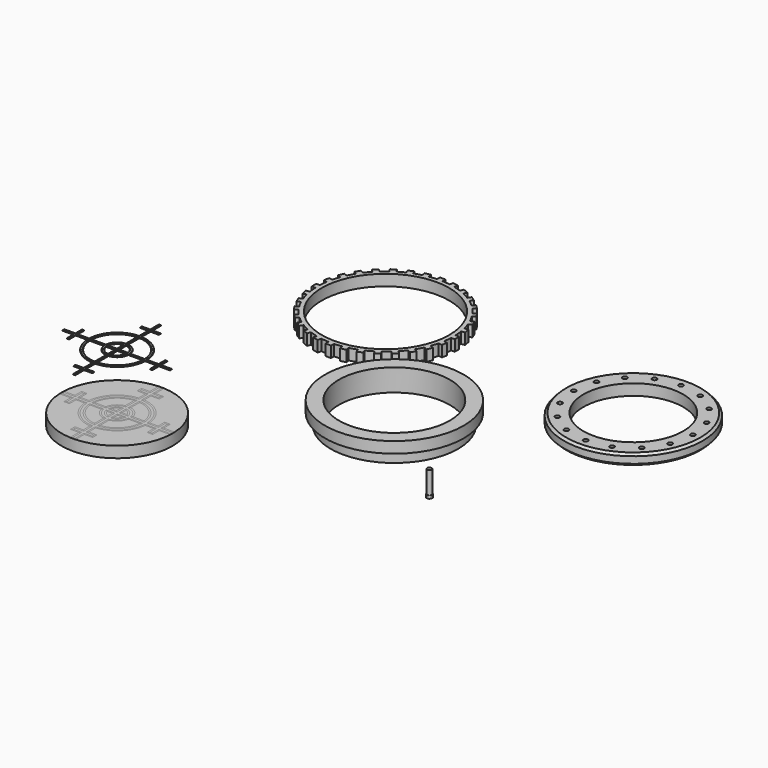
from build123d import *

# Parameters (mm, degrees)
F0_R      = 31.75
F0_R_2    = 25.4
F1_DEPTH  = 5.08
F2_R      = 29.21
F2_R_2    = 1.0361361301
F2_R_3    = 25.4
F3_DEPTH  = 5.08
F4_R      = 29.21
F5_DEPTH  = 5.08
F6_R      = 31.75
F6_R_2    = 1.0361422
F6_R_3    = 22.86
F7_DEPTH  = 5.08
F8_SIZE   = 1.016
F9_R      = 25.4
F10_DEPTH = 5.08
F11_R     = 1.27
F12_DEPTH = 1.27
F13_R     = 1.0361422
F14_DEPTH = 10.16
F15_W     = 2.54
F15_H     = 2.54
F15_H_2   = 3.81
F15_W_2   = 3.81
F16_DEPTH = 0.0254
F16_TAPER = 88
F18_DEPTH = 0.254
F18_TAPER = 30


with BuildPart() as f1:
    # F0 (on Top) → F1 (new body)
    with BuildSketch(Plane.XY):
        Circle(F0_R)
        Circle(F0_R_2, mode=Mode.SUBTRACT)
    extrude(amount=F1_DEPTH)

    # F2 (on face) → F3 (join)
    with BuildSketch(Plane(origin=(0, 0, 0), x_dir=(1, 0, 0), z_dir=(0, 0, -1))):
        Circle(F2_R)
        with Locations((-19.3075506603, -19.3075506603)):
            Circle(F2_R_2, mode=Mode.SUBTRACT)
        with Locations((-10.4491711207, -25.2265306352)):
            Circle(F2_R_2, mode=Mode.SUBTRACT)
        with Locations((-25.2265306352, -10.4491711207)):
            Circle(F2_R_2, mode=Mode.SUBTRACT)
        with Locations((0, -27.305)):
            Circle(F2_R_2, mode=Mode.SUBTRACT)
        with Locations((10.4491711207, -25.2265306352)):
            Circle(F2_R_2, mode=Mode.SUBTRACT)
        with Locations((19.3075506603, -19.3075506603)):
            Circle(F2_R_2, mode=Mode.SUBTRACT)
        with Locations((25.2265306352, -10.4491711207)):
            Circle(F2_R_2, mode=Mode.SUBTRACT)
        with Locations((-27.305, 0)):
            Circle(F2_R_2, mode=Mode.SUBTRACT)
        with Locations((-25.2265306352, 10.4491711207)):
            Circle(F2_R_2, mode=Mode.SUBTRACT)
        with Locations((-19.3075506603, 19.3075506603)):
            Circle(F2_R_2, mode=Mode.SUBTRACT)
        with Locations((-10.4491711207, 25.2265306352)):
            Circle(F2_R_2, mode=Mode.SUBTRACT)
        Circle(F2_R_3, mode=Mode.SUBTRACT)
        with BuildLine():
            ThreePointArc((26.2688638699, 0), (27.305, 1.0361361301), (28.3411361301, 0))
            ThreePointArc((28.3411361301, 0), (27.305, -1.0361361301), (26.2688638699, 0))
        make_face(mode=Mode.SUBTRACT)
        with Locations((25.2265306352, 10.4491711207)):
            Circle(F2_R_2, mode=Mode.SUBTRACT)
        with Locations((0, 27.305)):
            Circle(F2_R_2, mode=Mode.SUBTRACT)
        with Locations((10.4491711207, 25.2265306352)):
            Circle(F2_R_2, mode=Mode.SUBTRACT)
        with Locations((19.3075506603, 19.3075506603)):
            Circle(F2_R_2, mode=Mode.SUBTRACT)
    extrude(amount=F3_DEPTH)


with BuildPart() as f5:
    # F4 (on Top) → F5 (new body)
    with BuildSketch(Plane.XY):
        with BuildLine():
            ThreePointArc((-14.2868127504, 50.3645271792), (-14.2673665474, 50.9993948462), (-14.2608835793, 51.6345271792))
            ThreePointArc((-14.2608835793, 51.6345271792), (-14.2673665474, 52.2696595123), (-14.2868127504, 52.9045271792))
            ThreePointArc((-14.2868127504, 52.9045271792), (-14.4107108088, 54.6843305006), (-14.63641582, 56.4541067123))
            ThreePointArc((-14.63641582, 56.4541067123), (-14.8587495795, 57.7047625488), (-15.1319452379, 58.9453013245))
            ThreePointArc((-15.1319452379, 58.9453013245), (-15.6006850329, 60.666734912), (-16.1673193966, 62.3584725068))
            ThreePointArc((-16.1673193966, 62.3584725068), (-16.6293719252, 63.5417221773), (-17.1393353148, 64.7051265193))
            ThreePointArc((-17.1393353148, 64.7051265193), (-17.9349034391, 66.3020366456), (-18.8206917144, 67.8507230964))
            ThreePointArc((-18.8206917144, 67.8507230964), (-19.5047065925, 68.9210949796), (-20.2318401063, 69.9626559116))
            ThreePointArc((-20.2318401063, 69.9626559116), (-21.3236633229, 71.373674216), (-22.4945651633, 72.719794371))
            ThreePointArc((-22.4945651633, 72.719794371), (-23.3742560826, 73.6361546759), (-24.2906163875, 74.5158455952))
            ThreePointArc((-24.2906163875, 74.5158455952), (-25.6367365425, 75.6867474356), (-27.0477548469, 76.7785706522))
            ThreePointArc((-27.0477548469, 76.7785706522), (-28.0893157788, 77.505704166), (-29.1596876621, 78.1897190441))
            ThreePointArc((-29.1596876621, 78.1897190441), (-30.7083741129, 79.0755073194), (-32.3052842391, 79.8710754437))
            ThreePointArc((-32.3052842391, 79.8710754437), (-33.4686885812, 80.3810388333), (-34.6519382517, 80.8430913619))
            ThreePointArc((-34.6519382517, 80.8430913619), (-36.3436758465, 81.4097257255), (-38.065109434, 81.8784655206))
            ThreePointArc((-38.065109434, 81.8784655206), (-39.3056482097, 82.151661179), (-40.5563040462, 82.3739949385))
            ThreePointArc((-40.5563040462, 82.3739949385), (-42.3260802579, 82.5996999496), (-44.1058835793, 82.7235980081))
            Line((-44.1058835793, 82.7235980081), (-44.1058835793, 81.8605271792))
            Line((-44.1058835793, 81.8605271792), (-46.6458835793, 81.8605271792))
            Line((-46.6458835793, 81.8605271792), (-46.6458835793, 82.7235980081))
            ThreePointArc((-46.6458835793, 82.7235980081), (-48.4256869006, 82.5996999496), (-50.1954631123, 82.3739949385))
            ThreePointArc((-50.1954631123, 82.3739949385), (-51.4461189488, 82.151661179), (-52.6866577245, 81.8784655206))
            ThreePointArc((-52.6866577245, 81.8784655206), (-54.408091312, 81.4097257255), (-56.0998289068, 80.8430913619))
            ThreePointArc((-56.0998289068, 80.8430913619), (-57.2830785773, 80.3810388333), (-58.4464829194, 79.8710754437))
            ThreePointArc((-58.4464829194, 79.8710754437), (-60.0433930456, 79.0755073194), (-61.5920794964, 78.1897190441))
            ThreePointArc((-61.5920794964, 78.1897190441), (-62.6624513797, 77.505704166), (-63.7040123116, 76.7785706522))
            ThreePointArc((-63.7040123116, 76.7785706522), (-65.115030616, 75.6867474356), (-66.461150771, 74.5158455952))
            ThreePointArc((-66.461150771, 74.5158455952), (-67.3775110759, 73.6361546759), (-68.2572019952, 72.719794371))
            ThreePointArc((-68.2572019952, 72.719794371), (-69.4281038356, 71.373674216), (-70.5199270522, 69.9626559116))
            ThreePointArc((-70.5199270522, 69.9626559116), (-71.247060566, 68.9210949796), (-71.9310754441, 67.8507230964))
            ThreePointArc((-71.9310754441, 67.8507230964), (-72.8168637195, 66.3020366456), (-73.6124318437, 64.7051265193))
            ThreePointArc((-73.6124318437, 64.7051265193), (-74.1223952333, 63.5417221773), (-74.5844477619, 62.3584725068))
            ThreePointArc((-74.5844477619, 62.3584725068), (-75.1510821256, 60.666734912), (-75.6198219206, 58.9453013245))
            ThreePointArc((-75.6198219206, 58.9453013245), (-75.893017579, 57.7047625488), (-76.1153513385, 56.4541067123))
            ThreePointArc((-76.1153513385, 56.4541067123), (-76.3410563497, 54.6843305006), (-76.4649544081, 52.9045271792))
            ThreePointArc((-76.4649544081, 52.9045271792), (-76.4908835793, 51.6345271792), (-76.4649544081, 50.3645271792))
            ThreePointArc((-76.4649544081, 50.3645271792), (-76.3410563497, 48.5847238579), (-76.1153513385, 46.8149476462))
            ThreePointArc((-76.1153513385, 46.8149476462), (-75.893017579, 45.5642918097), (-75.6198219206, 44.3237530339))
            ThreePointArc((-75.6198219206, 44.3237530339), (-75.1510821256, 42.6023194465), (-74.5844477619, 40.9105818517))
            ThreePointArc((-74.5844477619, 40.9105818517), (-74.1223952333, 39.7273321812), (-73.6124318437, 38.5639278391))
            ThreePointArc((-73.6124318437, 38.5639278391), (-72.8168637195, 36.9670177129), (-71.9310754441, 35.4183312621))
            ThreePointArc((-71.9310754441, 35.4183312621), (-71.247060566, 34.3479593788), (-70.5199270522, 33.3063984469))
            ThreePointArc((-70.5199270522, 33.3063984469), (-69.4281038356, 31.8953801425), (-68.2572019952, 30.5492599875))
            ThreePointArc((-68.2572019952, 30.5492599875), (-67.3775110759, 29.6328996826), (-66.461150771, 28.7532087633))
            ThreePointArc((-66.461150771, 28.7532087633), (-65.115030616, 27.5823069229), (-63.7040123116, 26.4904837063))
            ThreePointArc((-63.7040123116, 26.4904837063), (-62.6624513797, 25.7633501924), (-61.5920794964, 25.0793353144))
            ThreePointArc((-61.5920794964, 25.0793353144), (-60.0433930456, 24.193547039), (-58.4464829194, 23.3979789148))
            ThreePointArc((-58.4464829194, 23.3979789148), (-57.2830785773, 22.8880155252), (-56.0998289068, 22.4259629966))
            ThreePointArc((-56.0998289068, 22.4259629966), (-54.408091312, 21.8593286329), (-52.6866577245, 21.3905888379))
            ThreePointArc((-52.6866577245, 21.3905888379), (-51.4461189488, 21.1173931795), (-50.1954631123, 20.89505942))
            ThreePointArc((-50.1954631123, 20.89505942), (-48.4256869006, 20.6693544088), (-46.6458835793, 20.5454563504))
            ThreePointArc((-46.6458835793, 20.5454563504), (-45.3758835793, 20.5195271792), (-44.1058835793, 20.5454563504))
            ThreePointArc((-44.1058835793, 20.5454563504), (-42.3260802579, 20.6693544088), (-40.5563040462, 20.89505942))
            ThreePointArc((-40.5563040462, 20.89505942), (-39.3056482097, 21.1173931795), (-38.065109434, 21.3905888379))
            ThreePointArc((-38.065109434, 21.3905888379), (-36.3436758465, 21.8593286329), (-34.6519382517, 22.4259629966))
            ThreePointArc((-34.6519382517, 22.4259629966), (-33.4686885812, 22.8880155252), (-32.3052842391, 23.3979789148))
            ThreePointArc((-32.3052842391, 23.3979789148), (-30.7083741129, 24.193547039), (-29.1596876621, 25.0793353144))
            ThreePointArc((-29.1596876621, 25.0793353144), (-28.0893157788, 25.7633501924), (-27.0477548469, 26.4904837063))
            ThreePointArc((-27.0477548469, 26.4904837063), (-25.6367365425, 27.5823069229), (-24.2906163875, 28.7532087633))
            ThreePointArc((-24.2906163875, 28.7532087633), (-23.3742560826, 29.6328996826), (-22.4945651633, 30.5492599875))
            ThreePointArc((-22.4945651633, 30.5492599875), (-21.3236633229, 31.8953801425), (-20.2318401063, 33.3063984469))
            ThreePointArc((-20.2318401063, 33.3063984469), (-19.5047065925, 34.3479593788), (-18.8206917144, 35.4183312621))
            ThreePointArc((-18.8206917144, 35.4183312621), (-17.9349034391, 36.9670177129), (-17.1393353148, 38.5639278391))
            ThreePointArc((-17.1393353148, 38.5639278391), (-16.6293719252, 39.7273321812), (-16.1673193966, 40.9105818517))
            ThreePointArc((-16.1673193966, 40.9105818517), (-15.6006850329, 42.6023194465), (-15.1319452379, 44.3237530339))
            ThreePointArc((-15.1319452379, 44.3237530339), (-14.8587495795, 45.5642918097), (-14.63641582, 46.8149476462))
            ThreePointArc((-14.63641582, 46.8149476462), (-14.4107108088, 48.5847238579), (-14.2868127504, 50.3645271792))
        make_face()
        with Locations((-45.3758835793, 51.6345271792)):
            Circle(F4_R, mode=Mode.SUBTRACT)
        with BuildLine():
            ThreePointArc((-14.2868127504, 52.9045271792), (-14.2673665474, 52.2696595123), (-14.2608835793, 51.6345271792))
            ThreePointArc((-14.2608835793, 51.6345271792), (-14.2673665474, 50.9993948462), (-14.2868127504, 50.3645271792))
            Line((-14.2868127504, 50.3645271792), (-12.6098835793, 50.3645271792))
            Line((-12.6098835793, 50.3645271792), (-12.6098835793, 52.9045271792))
            Line((-12.6098835793, 52.9045271792), (-14.2868127504, 52.9045271792))
        make_face()
        with BuildLine():
            ThreePointArc((-15.1319452379, 58.9453013245), (-14.8587495795, 57.7047625488), (-14.63641582, 56.4541067123))
            Line((-14.63641582, 56.4541067123), (-12.9917083726, 56.7812593643))
            Line((-12.9917083726, 56.7812593643), (-13.4872377905, 59.2724539765))
            Line((-13.4872377905, 59.2724539765), (-15.1319452379, 58.9453013245))
        make_face()
        with BuildLine():
            Line((-12.9917083726, 46.4877949942), (-14.63641582, 46.8149476462))
            ThreePointArc((-14.63641582, 46.8149476462), (-14.8587495795, 45.5642918097), (-15.1319452379, 44.3237530339))
            Line((-15.1319452379, 44.323753034), (-13.4872377905, 43.9966003819))
            Line((-13.4872377905, 43.9966003819), (-12.9917083726, 46.4877949942))
        make_face()
        with BuildLine():
            ThreePointArc((-17.1393353148, 64.7051265193), (-16.6293719252, 63.5417221773), (-16.1673193966, 62.3584725068))
            Line((-16.1673193966, 62.3584725068), (-14.6180388579, 63.0002055178))
            Line((-14.6180388579, 63.0002055178), (-15.5900547761, 65.3468595304))
            Line((-15.5900547761, 65.3468595304), (-17.1393353148, 64.7051265193))
        make_face()
        with BuildLine():
            Line((-14.6180388579, 40.2688488407), (-16.1673193966, 40.9105818517))
            ThreePointArc((-16.1673193966, 40.9105818517), (-16.6293719252, 39.7273321812), (-17.1393353148, 38.5639278391))
            Line((-17.1393353148, 38.5639278391), (-15.5900547761, 37.9221948281))
            Line((-15.5900547761, 37.9221948281), (-14.6180388579, 40.2688488407))
        make_face()
        with BuildLine():
            ThreePointArc((-20.2318401063, 69.9626559116), (-19.5047065925, 68.9210949796), (-18.8206917144, 67.8507230964))
            Line((-18.8206917144, 67.8507230964), (-17.4263760666, 68.7823750267))
            Line((-17.4263760666, 68.7823750267), (-18.8375244585, 70.894307842))
            Line((-18.8375244585, 70.894307842), (-20.2318401063, 69.9626559116))
        make_face()
        with BuildLine():
            Line((-17.4263760666, 34.4866793317), (-18.8206917144, 35.4183312621))
            ThreePointArc((-18.8206917144, 35.4183312621), (-19.5047065925, 34.3479593788), (-20.2318401063, 33.3063984469))
            Line((-20.2318401063, 33.3063984469), (-18.8375244585, 32.3747465165))
            Line((-18.8375244585, 32.3747465165), (-17.4263760666, 34.4866793317))
        make_face()
        with BuildLine():
            ThreePointArc((-24.2906163875, 74.5158455952), (-23.3742560826, 73.6361546759), (-22.4945651633, 72.719794371))
            Line((-22.4945651633, 72.719794371), (-21.3087971748, 73.9055623595))
            Line((-21.3087971748, 73.9055623595), (-23.104848399, 75.7016135837))
            Line((-23.104848399, 75.7016135837), (-24.2906163875, 74.5158455952))
        make_face()
        with BuildLine():
            Line((-21.3087971748, 29.363491999), (-22.4945651633, 30.5492599875))
            ThreePointArc((-22.4945651633, 30.5492599875), (-23.3742560826, 29.6328996826), (-24.2906163875, 28.7532087633))
            Line((-24.2906163875, 28.7532087633), (-23.104848399, 27.5674407748))
            Line((-23.104848399, 27.5674407748), (-21.3087971748, 29.363491999))
        make_face()
        with BuildLine():
            ThreePointArc((-29.1596876621, 78.1897190441), (-28.0893157788, 77.505704166), (-27.0477548469, 76.7785706522))
            Line((-27.0477548469, 76.7785706522), (-26.1161029165, 78.1728863))
            Line((-26.1161029165, 78.1728863), (-28.2280357318, 79.5840346919))
            Line((-28.2280357318, 79.5840346919), (-29.1596876621, 78.1897190441))
        make_face()
        with BuildLine():
            Line((-26.1161029165, 25.0961680585), (-27.0477548469, 26.4904837063))
            ThreePointArc((-27.0477548469, 26.4904837063), (-28.0893157788, 25.7633501924), (-29.1596876621, 25.0793353144))
            Line((-29.1596876621, 25.0793353144), (-28.2280357318, 23.6850196666))
            Line((-28.2280357318, 23.6850196666), (-26.1161029165, 25.0961680585))
        make_face()
        with BuildLine():
            ThreePointArc((-34.6519382517, 80.8430913619), (-33.4686885812, 80.3810388333), (-32.3052842391, 79.8710754437))
            Line((-32.3052842391, 79.8710754437), (-31.6635512281, 81.4203559824))
            Line((-31.6635512281, 81.4203559824), (-34.0102052407, 82.3923719006))
            Line((-34.0102052407, 82.3923719006), (-34.6519382517, 80.8430913619))
        make_face()
        with BuildLine():
            Line((-31.6635512281, 21.8486983761), (-32.3052842391, 23.3979789148))
            ThreePointArc((-32.3052842391, 23.3979789148), (-33.4686885812, 22.8880155252), (-34.6519382517, 22.4259629966))
            Line((-34.6519382517, 22.4259629966), (-34.0102052407, 20.8766824579))
            Line((-34.0102052407, 20.8766824579), (-31.6635512281, 21.8486983761))
        make_face()
        with BuildLine():
            ThreePointArc((-40.5563040462, 82.3739949385), (-39.3056482097, 82.151661179), (-38.065109434, 81.8784655206))
            Line((-38.065109434, 81.8784655206), (-37.737956782, 83.523172968))
            Line((-37.737956782, 83.523172968), (-40.2291513942, 84.0187023859))
            Line((-40.2291513942, 84.0187023859), (-40.5563040462, 82.3739949385))
        make_face()
        with BuildLine():
            Line((-37.737956782, 19.7458813905), (-38.065109434, 21.3905888379))
            ThreePointArc((-38.065109434, 21.3905888379), (-39.3056482097, 21.1173931795), (-40.5563040462, 20.89505942))
            Line((-40.5563040462, 20.89505942), (-40.2291513942, 19.2503519726))
            Line((-40.2291513942, 19.2503519726), (-37.737956782, 19.7458813905))
        make_face()
        with BuildLine():
            Line((-44.1058835793, 81.8605271792), (-44.1058835793, 82.7235980081))
            ThreePointArc((-44.1058835793, 82.7235980081), (-45.3758835793, 82.7495271792), (-46.6458835793, 82.7235980081))
            Line((-46.6458835793, 82.7235980081), (-46.6458835793, 81.8605271792))
            Line((-46.6458835793, 81.8605271792), (-44.1058835793, 81.8605271792))
        make_face()
        with BuildLine():
            ThreePointArc((-46.6458835793, 82.7235980081), (-45.3758835793, 82.7495271792), (-44.1058835793, 82.7235980081))
            Line((-44.1058835793, 82.7235980081), (-44.1058835793, 84.4005271792))
            Line((-44.1058835793, 84.4005271792), (-46.6458835793, 84.4005271792))
            Line((-46.6458835793, 84.4005271792), (-46.6458835793, 82.7235980081))
        make_face()
        with BuildLine():
            Line((-44.1058835793, 18.8685271792), (-44.1058835793, 20.5454563504))
            ThreePointArc((-44.1058835793, 20.5454563504), (-45.3758835793, 20.5195271792), (-46.6458835793, 20.5454563504))
            Line((-46.6458835793, 20.5454563504), (-46.6458835793, 18.8685271792))
            Line((-46.6458835793, 18.8685271792), (-44.1058835793, 18.8685271792))
        make_face()
        with BuildLine():
            ThreePointArc((-52.6866577245, 81.8784655206), (-51.4461189488, 82.151661179), (-50.1954631123, 82.3739949385))
            Line((-50.1954631123, 82.3739949385), (-50.5226157643, 84.0187023859))
            Line((-50.5226157643, 84.0187023859), (-53.0138103765, 83.523172968))
            Line((-53.0138103765, 83.523172968), (-52.6866577245, 81.8784655206))
        make_face()
        with BuildLine():
            Line((-50.5226157643, 19.2503519726), (-50.1954631123, 20.89505942))
            ThreePointArc((-50.1954631123, 20.89505942), (-51.4461189488, 21.1173931795), (-52.6866577245, 21.3905888379))
            Line((-52.6866577245, 21.3905888379), (-53.0138103765, 19.7458813905))
            Line((-53.0138103765, 19.7458813905), (-50.5226157643, 19.2503519726))
        make_face()
        with BuildLine():
            ThreePointArc((-58.4464829194, 79.8710754437), (-57.2830785773, 80.3810388333), (-56.0998289068, 80.8430913619))
            Line((-56.0998289068, 80.8430913619), (-56.7415619178, 82.3923719006))
            Line((-56.7415619178, 82.3923719006), (-59.0882159304, 81.4203559824))
            Line((-59.0882159304, 81.4203559824), (-58.4464829194, 79.8710754437))
        make_face()
        with BuildLine():
            Line((-56.7415619178, 20.8766824579), (-56.0998289068, 22.4259629966))
            ThreePointArc((-56.0998289068, 22.4259629966), (-57.2830785773, 22.8880155252), (-58.4464829194, 23.3979789148))
            Line((-58.4464829194, 23.3979789148), (-59.0882159304, 21.8486983761))
            Line((-59.0882159304, 21.8486983761), (-56.7415619178, 20.8766824579))
        make_face()
        with BuildLine():
            ThreePointArc((-63.7040123116, 76.7785706522), (-62.6624513797, 77.505704166), (-61.5920794964, 78.1897190441))
            Line((-61.5920794964, 78.1897190441), (-62.5237314268, 79.5840346919))
            Line((-62.5237314268, 79.5840346919), (-64.635664242, 78.1728863))
            Line((-64.635664242, 78.1728863), (-63.7040123116, 76.7785706522))
        make_face()
        with BuildLine():
            Line((-62.5237314268, 23.6850196666), (-61.5920794964, 25.0793353144))
            ThreePointArc((-61.5920794964, 25.0793353144), (-62.6624513797, 25.7633501924), (-63.7040123116, 26.4904837063))
            Line((-63.7040123116, 26.4904837063), (-64.635664242, 25.0961680585))
            Line((-64.635664242, 25.0961680585), (-62.5237314268, 23.6850196666))
        make_face()
        with BuildLine():
            ThreePointArc((-68.2572019952, 72.719794371), (-67.3775110759, 73.6361546759), (-66.461150771, 74.5158455952))
            Line((-66.461150771, 74.5158455952), (-67.6469187595, 75.7016135837))
            Line((-67.6469187595, 75.7016135837), (-69.4429699837, 73.9055623595))
            Line((-69.4429699837, 73.9055623595), (-68.2572019952, 72.719794371))
        make_face()
        with BuildLine():
            Line((-67.6469187595, 27.5674407748), (-66.461150771, 28.7532087633))
            ThreePointArc((-66.461150771, 28.7532087633), (-67.3775110759, 29.6328996826), (-68.2572019952, 30.5492599875))
            Line((-68.2572019952, 30.5492599875), (-69.4429699837, 29.363491999))
            Line((-69.4429699837, 29.363491999), (-67.6469187595, 27.5674407748))
        make_face()
        with BuildLine():
            ThreePointArc((-71.9310754441, 67.8507230964), (-71.247060566, 68.9210949796), (-70.5199270522, 69.9626559116))
            Line((-70.5199270522, 69.9626559116), (-71.9142427, 70.894307842))
            Line((-71.9142427, 70.894307842), (-73.3253910919, 68.7823750267))
            Line((-73.3253910919, 68.7823750267), (-71.9310754441, 67.8507230964))
        make_face()
        with BuildLine():
            Line((-71.9142427, 32.3747465165), (-70.5199270522, 33.3063984469))
            ThreePointArc((-70.5199270522, 33.3063984469), (-71.247060566, 34.3479593788), (-71.9310754441, 35.4183312621))
            Line((-71.9310754441, 35.4183312621), (-73.3253910919, 34.4866793317))
            Line((-73.3253910919, 34.4866793317), (-71.9142427, 32.3747465165))
        make_face()
        with BuildLine():
            ThreePointArc((-74.5844477619, 62.3584725068), (-74.1223952333, 63.5417221773), (-73.6124318437, 64.7051265193))
            Line((-73.6124318437, 64.7051265193), (-75.1617123824, 65.3468595304))
            Line((-75.1617123824, 65.3468595304), (-76.1337283006, 63.0002055178))
            Line((-76.1337283006, 63.0002055178), (-74.5844477619, 62.3584725068))
        make_face()
        with BuildLine():
            Line((-75.1617123824, 37.9221948281), (-73.6124318437, 38.5639278391))
            ThreePointArc((-73.6124318437, 38.5639278391), (-74.1223952333, 39.7273321812), (-74.5844477619, 40.9105818517))
            Line((-74.5844477619, 40.9105818517), (-76.1337283006, 40.2688488407))
            Line((-76.1337283006, 40.2688488407), (-75.1617123824, 37.9221948281))
        make_face()
        with BuildLine():
            ThreePointArc((-76.1153513385, 56.4541067123), (-75.893017579, 57.7047625488), (-75.6198219206, 58.9453013245))
            Line((-75.6198219206, 58.9453013245), (-77.264529368, 59.2724539765))
            Line((-77.264529368, 59.2724539765), (-77.7600587859, 56.7812593643))
            Line((-77.7600587859, 56.7812593643), (-76.1153513385, 56.4541067123))
        make_face()
        with BuildLine():
            Line((-77.264529368, 43.9966003819), (-75.6198219206, 44.323753034))
            ThreePointArc((-75.6198219206, 44.3237530339), (-75.893017579, 45.5642918097), (-76.1153513385, 46.8149476462))
            Line((-76.1153513385, 46.8149476462), (-77.7600587859, 46.4877949942))
            Line((-77.7600587859, 46.4877949942), (-77.264529368, 43.9966003819))
        make_face()
        with BuildLine():
            ThreePointArc((-76.4649544081, 50.3645271792), (-76.4908835793, 51.6345271792), (-76.4649544081, 52.9045271792))
            Line((-76.4649544081, 52.9045271792), (-78.1418835793, 52.9045271792))
            Line((-78.1418835793, 52.9045271792), (-78.1418835793, 50.3645271792))
            Line((-78.1418835793, 50.3645271792), (-76.4649544081, 50.3645271792))
        make_face()
    extrude(amount=F5_DEPTH)


with BuildPart() as f7:
    # F6 (on Top) → F7 (new body)
    with BuildSketch(Plane.XY):
        with Locations((72.8653296828, 45.7405559719)):
            Circle(F6_R)
        with Locations((53.5577790225, 26.4330053116)):
            Circle(F6_R_2, mode=Mode.SUBTRACT)
        with Locations((62.4161585621, 20.5140253366)):
            Circle(F6_R_2, mode=Mode.SUBTRACT)
        with Locations((47.6387990476, 35.2913848511)):
            Circle(F6_R_2, mode=Mode.SUBTRACT)
        with Locations((72.8653296828, 18.4355559719)):
            Circle(F6_R_2, mode=Mode.SUBTRACT)
        with Locations((83.3145008036, 20.5140253366)):
            Circle(F6_R_2, mode=Mode.SUBTRACT)
        with Locations((92.1728803431, 26.4330053116)):
            Circle(F6_R_2, mode=Mode.SUBTRACT)
        with Locations((98.091860318, 35.2913848511)):
            Circle(F6_R_2, mode=Mode.SUBTRACT)
        with Locations((45.5603296828, 45.7405559719)):
            Circle(F6_R_2, mode=Mode.SUBTRACT)
        with Locations((47.6387990476, 56.1897270926)):
            Circle(F6_R_2, mode=Mode.SUBTRACT)
        with Locations((53.5577790225, 65.0481066322)):
            Circle(F6_R_2, mode=Mode.SUBTRACT)
        with Locations((62.4161585621, 70.9670866071)):
            Circle(F6_R_2, mode=Mode.SUBTRACT)
        with Locations((72.8653296828, 45.7405559719)):
            Circle(F6_R_3, mode=Mode.SUBTRACT)
        with Locations((100.1703296828, 45.7405559719)):
            Circle(F6_R_2, mode=Mode.SUBTRACT)
        with Locations((98.091860318, 56.1897270926)):
            Circle(F6_R_2, mode=Mode.SUBTRACT)
        with Locations((72.8653296828, 73.0455559719)):
            Circle(F6_R_2, mode=Mode.SUBTRACT)
        with Locations((83.3145008036, 70.9670866071)):
            Circle(F6_R_2, mode=Mode.SUBTRACT)
        with Locations((92.1728803431, 65.0481066322)):
            Circle(F6_R_2, mode=Mode.SUBTRACT)
    extrude(amount=F7_DEPTH)

    # F8
    f8_edges = [f7.edges().sort_by_distance(p)[0] for p in [
        (41.11533, 45.740556, 5.08),
        (41.11533, 45.740556, 0),
    ]]
    chamfer(f8_edges, length=F8_SIZE)


with BuildPart() as f10:
    # F9 (on Top) → F10 (new body)
    with BuildSketch(Plane.XY):
        with Locations((-71.2537541986, -69.706402719)):
            Circle(F9_R)
    extrude(amount=F10_DEPTH)

    # F15 (on face) → F16 (cut)
    with BuildSketch(Plane.XY.offset(5.08)):
        with BuildLine():
            Line((-91.5737541986, -70.976402719), (-91.5737541986, -68.436402719))
            Line((-91.5737541986, -68.436402719), (-96.62198433, -68.436402719))
            ThreePointArc((-96.62198433, -68.436402719), (-96.6537541986, -69.706402719), (-96.62198433, -70.976402719))
            Line((-96.62198433, -70.976402719), (-91.5737541986, -70.976402719))
        make_face()
        with Locations((-90.3037541986, -69.706402719)):
            Rectangle(F15_W, F15_H)
        with Locations((-90.3037541986, -72.881402719)):
            Rectangle(F15_W, F15_H_2)
        with Locations((-90.3037541986, -66.531402719)):
            Rectangle(F15_W, F15_H_2)
        with BuildLine():
            ThreePointArc((-85.1659071592, -70.976402719), (-85.2237541986, -69.706402719), (-85.1659071592, -68.436402719))
            Line((-85.1659071592, -68.436402719), (-89.0337541986, -68.436402719))
            Line((-89.0337541986, -68.436402719), (-89.0337541986, -70.976402719))
            Line((-89.0337541986, -70.976402719), (-85.1659071592, -70.976402719))
        make_face()
        with BuildLine():
            Line((-82.6129795243, -68.436402719), (-85.1659071592, -68.436402719))
            ThreePointArc((-85.1659071592, -68.436402719), (-85.2237541986, -69.706402719), (-85.1659071592, -70.976402719))
            Line((-85.1659071592, -70.976402719), (-82.6129795243, -70.976402719))
            ThreePointArc((-82.6129795243, -70.976402719), (-82.6837541986, -69.706402719), (-82.6129795243, -68.436402719))
        make_face()
        with BuildLine():
            ThreePointArc((-85.1659071592, -70.976402719), (-81.1320359317, -79.5846844522), (-72.5237541986, -83.6185556797))
            Line((-72.5237541986, -83.6185556797), (-72.5237541986, -81.0656280447))
            ThreePointArc((-72.5237541986, -81.0656280447), (-79.3359847075, -77.788633228), (-82.6129795243, -70.976402719))
            Line((-82.6129795243, -70.976402719), (-85.1659071592, -70.976402719))
        make_face()
        with BuildLine():
            Line((-77.4754581452, -68.436402719), (-82.6129795243, -68.436402719))
            ThreePointArc((-82.6129795243, -68.436402719), (-82.6837541986, -69.706402719), (-82.6129795243, -70.976402719))
            Line((-82.6129795243, -70.976402719), (-77.4754581452, -70.976402719))
            ThreePointArc((-77.4754581452, -70.976402719), (-77.6037541986, -69.706402719), (-77.4754581452, -68.436402719))
        make_face()
        with BuildLine():
            Line((-72.5237541986, -58.3471773933), (-72.5237541986, -55.7942497584))
            ThreePointArc((-72.5237541986, -55.7942497584), (-81.1320359317, -59.8281209858), (-85.1659071592, -68.436402719))
            Line((-85.1659071592, -68.436402719), (-82.6129795243, -68.436402719))
            ThreePointArc((-82.6129795243, -68.436402719), (-79.3359847075, -61.6241722101), (-72.5237541986, -58.3471773933))
        make_face()
        with BuildLine():
            ThreePointArc((-77.4754581452, -70.976402719), (-75.7438822591, -74.1965307796), (-72.5237541986, -75.9281066657))
            Line((-72.5237541986, -75.9281066657), (-72.5237541986, -73.2985051674))
            ThreePointArc((-72.5237541986, -73.2985051674), (-73.9478310349, -72.4004795553), (-74.845856647, -70.976402719))
            Line((-74.845856647, -70.976402719), (-77.4754581452, -70.976402719))
        make_face()
        with BuildLine():
            ThreePointArc((-72.5237541986, -75.9281066657), (-71.2537541986, -76.056402719), (-69.9837541986, -75.9281066657))
            Line((-69.9837541986, -75.9281066657), (-69.9837541986, -73.2985051674))
            ThreePointArc((-69.9837541986, -73.2985051674), (-71.2537541986, -73.516402719), (-72.5237541986, -73.2985051674))
            Line((-72.5237541986, -73.2985051674), (-72.5237541986, -75.9281066657))
        make_face()
        with BuildLine():
            ThreePointArc((-72.5237541986, -83.6185556797), (-71.2537541986, -83.676402719), (-69.9837541986, -83.6185556797))
            Line((-69.9837541986, -83.6185556797), (-69.9837541986, -81.0656280447))
            ThreePointArc((-69.9837541986, -81.0656280447), (-71.2537541986, -81.136402719), (-72.5237541986, -81.0656280447))
            Line((-72.5237541986, -81.0656280447), (-72.5237541986, -83.6185556797))
        make_face()
        with Locations((-74.4287541986, -88.756402719)):
            Rectangle(F15_W_2, F15_H)
        with Locations((-68.0787541986, -88.756402719)):
            Rectangle(F15_W_2, F15_H)
        with BuildLine():
            Line((-69.9837541986, -87.486402719), (-69.9837541986, -83.6185556797))
            ThreePointArc((-69.9837541986, -83.6185556797), (-71.2537541986, -83.676402719), (-72.5237541986, -83.6185556797))
            Line((-72.5237541986, -83.6185556797), (-72.5237541986, -87.486402719))
            Line((-72.5237541986, -87.486402719), (-69.9837541986, -87.486402719))
        make_face()
        with BuildLine():
            Line((-69.9837541986, -95.0746328504), (-69.9837541986, -90.026402719))
            Line((-69.9837541986, -90.026402719), (-72.5237541986, -90.026402719))
            Line((-72.5237541986, -90.026402719), (-72.5237541986, -95.0746328504))
            ThreePointArc((-72.5237541986, -95.0746328504), (-71.2537541986, -95.106402719), (-69.9837541986, -95.0746328504))
        make_face()
        with Locations((-71.2537541986, -88.756402719)):
            Rectangle(F15_W, F15_H)
        with BuildLine():
            ThreePointArc((-69.9837541986, -83.6185556797), (-61.3754724654, -79.5846844522), (-57.3416012379, -70.976402719))
            Line((-57.3416012379, -70.976402719), (-59.8945288729, -70.976402719))
            ThreePointArc((-59.8945288729, -70.976402719), (-63.1715236896, -77.788633228), (-69.9837541986, -81.0656280447))
            Line((-69.9837541986, -81.0656280447), (-69.9837541986, -83.6185556797))
        make_face()
        with Locations((-52.2037541986, -72.881402719)):
            Rectangle(F15_W, F15_H_2)
        with BuildLine():
            Line((-45.8855240671, -68.436402719), (-50.9337541986, -68.436402719))
            Line((-50.9337541986, -68.436402719), (-50.9337541986, -70.976402719))
            Line((-50.9337541986, -70.976402719), (-45.8855240671, -70.976402719))
            ThreePointArc((-45.8855240671, -70.976402719), (-45.8616979079, -70.3416013739), (-45.8537541986, -69.706402719))
            ThreePointArc((-45.8537541986, -69.706402719), (-45.8616979079, -69.0712040642), (-45.8855240671, -68.436402719))
        make_face()
        with Locations((-52.2037541986, -69.706402719)):
            Rectangle(F15_W, F15_H)
        with Locations((-52.2037541986, -66.531402719)):
            Rectangle(F15_W, F15_H_2)
        with BuildLine():
            ThreePointArc((-57.3416012379, -68.436402719), (-57.2982234516, -69.0707443438), (-57.2837541986, -69.706402719))
            ThreePointArc((-57.2837541986, -69.706402719), (-57.2982234516, -70.3420610942), (-57.3416012379, -70.976402719))
            Line((-57.3416012379, -70.976402719), (-53.4737541986, -70.976402719))
            Line((-53.4737541986, -70.976402719), (-53.4737541986, -68.436402719))
            Line((-53.4737541986, -68.436402719), (-57.3416012379, -68.436402719))
        make_face()
        with BuildLine():
            ThreePointArc((-57.3416012379, -70.976402719), (-57.2982234516, -70.3420610942), (-57.2837541986, -69.706402719))
            ThreePointArc((-57.2837541986, -69.706402719), (-57.2982234516, -69.0707443438), (-57.3416012379, -68.436402719))
            Line((-57.3416012379, -68.436402719), (-59.8945288729, -68.436402719))
            ThreePointArc((-59.8945288729, -68.436402719), (-59.8414615833, -69.070417449), (-59.8237541986, -69.706402719))
            ThreePointArc((-59.8237541986, -69.706402719), (-59.8414615833, -70.342387989), (-59.8945288729, -70.976402719))
            Line((-59.8945288729, -70.976402719), (-57.3416012379, -70.976402719))
        make_face()
        with BuildLine():
            Line((-59.8945288729, -68.436402719), (-57.3416012379, -68.436402719))
            ThreePointArc((-57.3416012379, -68.436402719), (-61.3754724654, -59.8281209858), (-69.9837541986, -55.7942497584))
            Line((-69.9837541986, -55.7942497584), (-69.9837541986, -58.3471773933))
            ThreePointArc((-69.9837541986, -58.3471773933), (-63.1715236896, -61.6241722101), (-59.8945288729, -68.436402719))
        make_face()
        with BuildLine():
            ThreePointArc((-69.9837541986, -75.9281066657), (-66.763626138, -74.1965307796), (-65.0320502519, -70.976402719))
            Line((-65.0320502519, -70.976402719), (-67.6616517501, -70.976402719))
            ThreePointArc((-67.6616517501, -70.976402719), (-68.5596773622, -72.4004795553), (-69.9837541986, -73.2985051674))
            Line((-69.9837541986, -73.2985051674), (-69.9837541986, -75.9281066657))
        make_face()
        with BuildLine():
            Line((-74.845856647, -68.436402719), (-77.4754581452, -68.436402719))
            ThreePointArc((-77.4754581452, -68.436402719), (-77.6037541986, -69.706402719), (-77.4754581452, -70.976402719))
            Line((-77.4754581452, -70.976402719), (-74.845856647, -70.976402719))
            ThreePointArc((-74.845856647, -70.976402719), (-75.0637541986, -69.706402719), (-74.845856647, -68.436402719))
        make_face()
        with BuildLine():
            Line((-72.5237541986, -66.1143002706), (-72.5237541986, -63.4846987724))
            ThreePointArc((-72.5237541986, -63.4846987724), (-75.7438822591, -65.2162746585), (-77.4754581452, -68.436402719))
            Line((-77.4754581452, -68.436402719), (-74.845856647, -68.436402719))
            ThreePointArc((-74.845856647, -68.436402719), (-73.9478310349, -67.0123258827), (-72.5237541986, -66.1143002706))
        make_face()
        with BuildLine():
            ThreePointArc((-72.5237541986, -73.2985051674), (-71.2537541986, -73.516402719), (-69.9837541986, -73.2985051674))
            Line((-69.9837541986, -73.2985051674), (-69.9837541986, -70.976402719))
            Line((-69.9837541986, -70.976402719), (-72.5237541986, -70.976402719))
            Line((-72.5237541986, -70.976402719), (-72.5237541986, -73.2985051674))
        make_face()
        with BuildLine():
            ThreePointArc((-67.4437541986, -69.706402719), (-67.4986236863, -69.0621241801), (-67.6616517501, -68.436402719))
            Line((-67.6616517501, -68.436402719), (-69.9837541986, -68.436402719))
            Line((-69.9837541986, -68.436402719), (-69.9837541986, -70.976402719))
            Line((-69.9837541986, -70.976402719), (-67.6616517501, -70.976402719))
            ThreePointArc((-67.6616517501, -70.976402719), (-67.4986236863, -70.350681258), (-67.4437541986, -69.706402719))
        make_face()
        with Locations((-71.2537541986, -69.706402719)):
            Rectangle(F15_W, F15_H)
        with BuildLine():
            Line((-72.5237541986, -70.976402719), (-72.5237541986, -68.436402719))
            Line((-72.5237541986, -68.436402719), (-74.845856647, -68.436402719))
            ThreePointArc((-74.845856647, -68.436402719), (-75.0637541986, -69.706402719), (-74.845856647, -70.976402719))
            Line((-74.845856647, -70.976402719), (-72.5237541986, -70.976402719))
        make_face()
        with BuildLine():
            Line((-69.9837541986, -68.436402719), (-69.9837541986, -66.1143002706))
            ThreePointArc((-69.9837541986, -66.1143002706), (-71.2537541986, -65.896402719), (-72.5237541986, -66.1143002706))
            Line((-72.5237541986, -66.1143002706), (-72.5237541986, -68.436402719))
            Line((-72.5237541986, -68.436402719), (-69.9837541986, -68.436402719))
        make_face()
        with BuildLine():
            Line((-69.9837541986, -66.1143002706), (-69.9837541986, -63.4846987724))
            ThreePointArc((-69.9837541986, -63.4846987724), (-71.2537541986, -63.356402719), (-72.5237541986, -63.4846987724))
            Line((-72.5237541986, -63.4846987724), (-72.5237541986, -66.1143002706))
            ThreePointArc((-72.5237541986, -66.1143002706), (-71.2537541986, -65.896402719), (-69.9837541986, -66.1143002706))
        make_face()
        with BuildLine():
            Line((-69.9837541986, -63.4846987724), (-69.9837541986, -58.3471773933))
            ThreePointArc((-69.9837541986, -58.3471773933), (-71.2537541986, -58.276402719), (-72.5237541986, -58.3471773933))
            Line((-72.5237541986, -58.3471773933), (-72.5237541986, -63.4846987724))
            ThreePointArc((-72.5237541986, -63.4846987724), (-71.2537541986, -63.356402719), (-69.9837541986, -63.4846987724))
        make_face()
        with BuildLine():
            ThreePointArc((-59.8237541986, -69.706402719), (-59.8414615833, -69.070417449), (-59.8945288729, -68.436402719))
            Line((-59.8945288729, -68.436402719), (-65.0320502519, -68.436402719))
            ThreePointArc((-65.0320502519, -68.436402719), (-64.935909627, -69.0681708103), (-64.9037541986, -69.706402719))
            ThreePointArc((-64.9037541986, -69.706402719), (-64.935909627, -70.3446346278), (-65.0320502519, -70.976402719))
            Line((-65.0320502519, -70.976402719), (-59.8945288729, -70.976402719))
            ThreePointArc((-59.8945288729, -70.976402719), (-59.8414615833, -70.342387989), (-59.8237541986, -69.706402719))
        make_face()
        with BuildLine():
            ThreePointArc((-64.9037541986, -69.706402719), (-64.935909627, -69.0681708103), (-65.0320502519, -68.436402719))
            Line((-65.0320502519, -68.436402719), (-67.6616517501, -68.436402719))
            ThreePointArc((-67.6616517501, -68.436402719), (-67.4986236863, -69.0621241801), (-67.4437541986, -69.706402719))
            ThreePointArc((-67.4437541986, -69.706402719), (-67.4986236863, -70.350681258), (-67.6616517501, -70.976402719))
            Line((-67.6616517501, -70.976402719), (-65.0320502519, -70.976402719))
            ThreePointArc((-65.0320502519, -70.976402719), (-64.935909627, -70.3446346278), (-64.9037541986, -69.706402719))
        make_face()
        with BuildLine():
            Line((-67.6616517501, -68.436402719), (-65.0320502519, -68.436402719))
            ThreePointArc((-65.0320502519, -68.436402719), (-66.763626138, -65.2162746585), (-69.9837541986, -63.4846987724))
            Line((-69.9837541986, -63.4846987724), (-69.9837541986, -66.1143002706))
            ThreePointArc((-69.9837541986, -66.1143002706), (-68.5596773622, -67.0123258827), (-67.6616517501, -68.436402719))
        make_face()
        with BuildLine():
            Line((-69.9837541986, -58.3471773933), (-69.9837541986, -55.7942497584))
            ThreePointArc((-69.9837541986, -55.7942497584), (-71.2537541986, -55.736402719), (-72.5237541986, -55.7942497584))
            Line((-72.5237541986, -55.7942497584), (-72.5237541986, -58.3471773933))
            ThreePointArc((-72.5237541986, -58.3471773933), (-71.2537541986, -58.276402719), (-69.9837541986, -58.3471773933))
        make_face()
        with Locations((-71.2537541986, -50.656402719)):
            Rectangle(F15_W, F15_H)
        with Locations((-68.0787541986, -50.656402719)):
            Rectangle(F15_W_2, F15_H)
        with Locations((-74.4287541986, -50.656402719)):
            Rectangle(F15_W_2, F15_H)
        with BuildLine():
            ThreePointArc((-72.5237541986, -81.0656280447), (-71.2537541986, -81.136402719), (-69.9837541986, -81.0656280447))
            Line((-69.9837541986, -81.0656280447), (-69.9837541986, -75.9281066657))
            ThreePointArc((-69.9837541986, -75.9281066657), (-71.2537541986, -76.056402719), (-72.5237541986, -75.9281066657))
            Line((-72.5237541986, -75.9281066657), (-72.5237541986, -81.0656280447))
        make_face()
        with BuildLine():
            ThreePointArc((-72.5237541986, -55.7942497584), (-71.2537541986, -55.736402719), (-69.9837541986, -55.7942497584))
            Line((-69.9837541986, -55.7942497584), (-69.9837541986, -51.926402719))
            Line((-69.9837541986, -51.926402719), (-72.5237541986, -51.926402719))
            Line((-72.5237541986, -51.926402719), (-72.5237541986, -55.7942497584))
        make_face()
        with BuildLine():
            Line((-72.5237541986, -49.386402719), (-69.9837541986, -49.386402719))
            Line((-69.9837541986, -49.386402719), (-69.9837541986, -44.3381725876))
            ThreePointArc((-69.9837541986, -44.3381725876), (-71.2537541986, -44.306402719), (-72.5237541986, -44.3381725876))
            Line((-72.5237541986, -44.3381725876), (-72.5237541986, -49.386402719))
        make_face()
    extrude(amount=-F16_DEPTH, taper=F16_TAPER, mode=Mode.SUBTRACT)


with BuildPart() as f12:
    # F11 (on Top) → F12 (new body)
    with BuildSketch(Plane.XY):
        with Locations((50.6605580449, -43.2283319533)):
            Circle(F11_R)
    extrude(amount=F12_DEPTH)

    # F13 (on face) → F14 (join)
    with BuildSketch(Plane.XY.offset(1.27)):
        with Locations((50.6605580449, -43.2283319533)):
            Circle(F13_R)
    extrude(amount=F14_DEPTH)


with BuildPart() as f18:
    # F17 (on face) → F18 (new body)
    with BuildSketch(Plane.XY.offset(5.0546)):
        with BuildLine():
            Line((-52.7463933652, -69.1637635524), (-58.022237474, -69.1637635524))
            ThreePointArc((-58.022237474, -69.1637635524), (-61.889794243, -60.3424427635), (-70.7111150319, -56.4748859945))
            Line((-70.7111150319, -56.4748859945), (-70.7111150319, -51.1990418856))
            Line((-70.7111150319, -51.1990418856), (-66.9011150319, -51.1990418856))
            Line((-66.9011150319, -51.1990418856), (-66.9011150319, -50.1137635524))
            Line((-66.9011150319, -50.1137635524), (-70.7111150319, -50.1137635524))
            Line((-70.7111150319, -50.1137635524), (-70.7111150319, -45.0397315577))
            ThreePointArc((-70.7111150319, -45.0397315577), (-71.2537541986, -45.0337635524), (-71.7963933652, -45.0397315577))
            Line((-71.7963933652, -45.0397315577), (-71.7963933652, -50.1137635524))
            Line((-71.7963933652, -50.1137635524), (-75.6063933652, -50.1137635524))
            Line((-75.6063933652, -50.1137635524), (-75.6063933652, -51.1990418856))
            Line((-75.6063933652, -51.1990418856), (-71.7963933652, -51.1990418856))
            Line((-71.7963933652, -51.1990418856), (-71.7963933652, -56.4748859945))
            ThreePointArc((-71.7963933652, -56.4748859945), (-80.6177141541, -60.3424427635), (-84.4852709231, -69.1637635524))
            Line((-84.4852709231, -69.1637635524), (-89.7611150319, -69.1637635524))
            Line((-89.7611150319, -69.1637635524), (-89.7611150319, -65.3537635524))
            Line((-89.7611150319, -65.3537635524), (-90.8463933652, -65.3537635524))
            Line((-90.8463933652, -65.3537635524), (-90.8463933652, -69.1637635524))
            Line((-90.8463933652, -69.1637635524), (-95.9204253599, -69.1637635524))
            ThreePointArc((-95.9204253599, -69.1637635524), (-95.9263933652, -69.706402719), (-95.9204253599, -70.2490418856))
            Line((-95.9204253599, -70.2490418856), (-90.8463933652, -70.2490418856))
            Line((-90.8463933652, -70.2490418856), (-90.8463933652, -74.0590418856))
            Line((-90.8463933652, -74.0590418856), (-89.7611150319, -74.0590418856))
            Line((-89.7611150319, -74.0590418856), (-89.7611150319, -70.2490418856))
            Line((-89.7611150319, -70.2490418856), (-84.4852709231, -70.2490418856))
            ThreePointArc((-84.4852709231, -70.2490418856), (-80.6177141541, -79.0703626745), (-71.7963933652, -82.9379194436))
            Line((-71.7963933652, -82.9379194436), (-71.7963933652, -88.2137635524))
            Line((-71.7963933652, -88.2137635524), (-75.6063933652, -88.2137635524))
            Line((-75.6063933652, -88.2137635524), (-75.6063933652, -89.2990418856))
            Line((-75.6063933652, -89.2990418856), (-71.7963933652, -89.2990418856))
            Line((-71.7963933652, -89.2990418856), (-71.7963933652, -94.3730738803))
            ThreePointArc((-71.7963933652, -94.3730738803), (-71.2537541986, -94.3790418856), (-70.7111150319, -94.3730738803))
            Line((-70.7111150319, -94.3730738803), (-70.7111150319, -89.2990418856))
            Line((-70.7111150319, -89.2990418856), (-66.9011150319, -89.2990418856))
            Line((-66.9011150319, -89.2990418856), (-66.9011150319, -88.2137635524))
            Line((-66.9011150319, -88.2137635524), (-70.7111150319, -88.2137635524))
            Line((-70.7111150319, -88.2137635524), (-70.7111150319, -82.9379194436))
            ThreePointArc((-70.7111150319, -82.9379194436), (-61.889794243, -79.0703626745), (-58.022237474, -70.2490418856))
            Line((-58.022237474, -70.2490418856), (-52.7463933652, -70.2490418856))
            Line((-52.7463933652, -70.2490418856), (-52.7463933652, -74.0590418856))
            Line((-52.7463933652, -74.0590418856), (-51.6611150319, -74.0590418856))
            Line((-51.6611150319, -74.0590418856), (-51.6611150319, -70.2490418856))
            Line((-51.6611150319, -70.2490418856), (-46.5870830372, -70.2490418856))
            ThreePointArc((-46.5870830372, -70.2490418856), (-46.5811150319, -69.706402719), (-46.5870830372, -69.1637635524))
            Line((-46.5870830372, -69.1637635524), (-51.6611150319, -69.1637635524))
            Line((-51.6611150319, -69.1637635524), (-51.6611150319, -65.3537635524))
            Line((-51.6611150319, -65.3537635524), (-52.7463933652, -65.3537635524))
            Line((-52.7463933652, -65.3537635524), (-52.7463933652, -69.1637635524))
        make_face()
        with BuildLine():
            ThreePointArc((-71.7963933652, -81.8516472686), (-79.8503064852, -78.3029550056), (-83.3989987481, -70.2490418856))
            Line((-83.3989987481, -70.2490418856), (-76.850147138, -70.2490418856))
            ThreePointArc((-76.850147138, -70.2490418856), (-75.2295604814, -73.6822090019), (-71.7963933652, -75.3027956585))
            Line((-71.7963933652, -75.3027956585), (-71.7963933652, -81.8516472686))
        make_face(mode=Mode.SUBTRACT)
        with BuildLine():
            Line((-75.7585500948, -70.2490418856), (-71.7963933652, -70.2490418856))
            Line((-71.7963933652, -70.2490418856), (-71.7963933652, -74.2111986153))
            ThreePointArc((-71.7963933652, -74.2111986153), (-74.4621528125, -72.914801333), (-75.7585500948, -70.2490418856))
        make_face(mode=Mode.SUBTRACT)
        with BuildLine():
            ThreePointArc((-59.108509649, -70.2490418856), (-62.6572019119, -78.3029550056), (-70.7111150319, -81.8516472686))
            Line((-70.7111150319, -81.8516472686), (-70.7111150319, -75.3027956585))
            ThreePointArc((-70.7111150319, -75.3027956585), (-67.2779479157, -73.6822090019), (-65.6573612591, -70.2490418856))
            Line((-65.6573612591, -70.2490418856), (-59.108509649, -70.2490418856))
        make_face(mode=Mode.SUBTRACT)
        with BuildLine():
            ThreePointArc((-66.7489583023, -70.2490418856), (-68.0453555846, -72.914801333), (-70.7111150319, -74.2111986153))
            Line((-70.7111150319, -74.2111986153), (-70.7111150319, -70.2490418856))
            Line((-70.7111150319, -70.2490418856), (-66.7489583023, -70.2490418856))
        make_face(mode=Mode.SUBTRACT)
        with BuildLine():
            Line((-71.7963933652, -65.2016068227), (-71.7963933652, -69.1637635524))
            Line((-71.7963933652, -69.1637635524), (-75.7585500948, -69.1637635524))
            ThreePointArc((-75.7585500948, -69.1637635524), (-74.4621528125, -66.498004105), (-71.7963933652, -65.2016068227))
        make_face(mode=Mode.SUBTRACT)
        with BuildLine():
            ThreePointArc((-71.7963933652, -64.1100097796), (-75.2295604814, -65.7305964361), (-76.850147138, -69.1637635524))
            Line((-76.850147138, -69.1637635524), (-83.3989987481, -69.1637635524))
            ThreePointArc((-83.3989987481, -69.1637635524), (-79.8503064852, -61.1098504324), (-71.7963933652, -57.5611581695))
            Line((-71.7963933652, -57.5611581695), (-71.7963933652, -64.1100097796))
        make_face(mode=Mode.SUBTRACT)
        with BuildLine():
            ThreePointArc((-70.7111150319, -65.2016068227), (-68.0453555846, -66.498004105), (-66.7489583023, -69.1637635524))
            Line((-66.7489583023, -69.1637635524), (-70.7111150319, -69.1637635524))
            Line((-70.7111150319, -69.1637635524), (-70.7111150319, -65.2016068227))
        make_face(mode=Mode.SUBTRACT)
        with BuildLine():
            Line((-59.108509649, -69.1637635524), (-65.6573612591, -69.1637635524))
            ThreePointArc((-65.6573612591, -69.1637635524), (-67.2779479157, -65.7305964361), (-70.7111150319, -64.1100097796))
            Line((-70.7111150319, -64.1100097796), (-70.7111150319, -57.5611581695))
            ThreePointArc((-70.7111150319, -57.5611581695), (-62.6572019119, -61.1098504324), (-59.108509649, -69.1637635524))
        make_face(mode=Mode.SUBTRACT)
    extrude(amount=F18_DEPTH, taper=F18_TAPER)


with BuildPart() as f19_1:
    # F19: copy of F18
    add(f18.part.moved(Location((0, 0, 25.4))))


solid = Compound([f1.part, f5.part, f7.part, f10.part, f12.part, f19_1.part])
